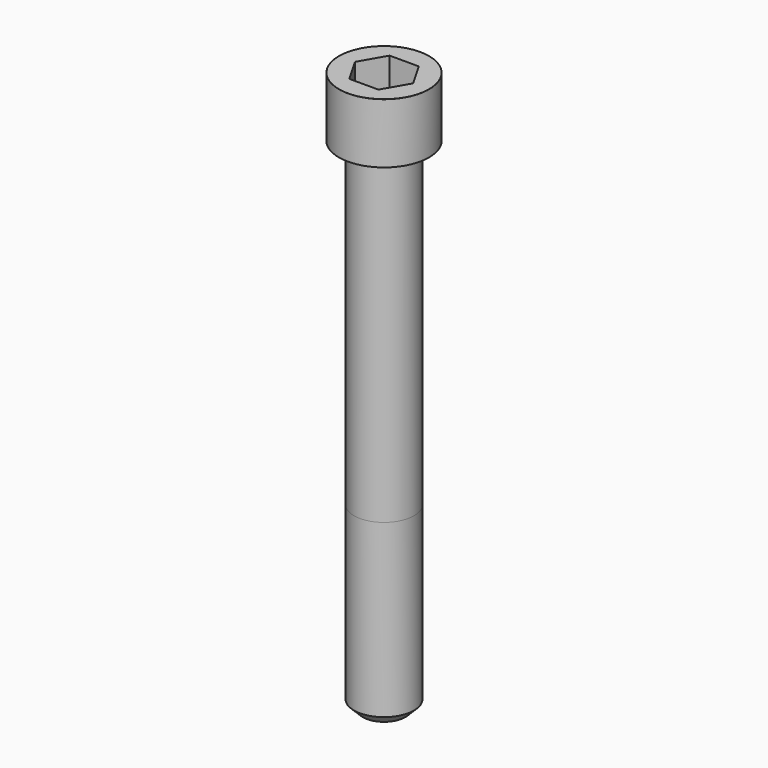
from build123d import *

# Parameters (mm, degrees)
POCKET_DEPTH = 10.07


with BuildPart() as part:
    # Sketch → Revolve (revolve)
    with BuildSketch(Plane.YZ):
        with BuildLine():
            Line((5.999, 0), (9, 0))
            Line((9, 0), (9, 11.97229))
            ThreePointArc((9, 11.97229), (8.991884, 11.991884), (8.97229, 12))
            Line((8.97229, 12), (0, 12))
            Line((0, -100), (0, 12))
            Line((4.25, -100), (0, -100))
            Line((6, -98.25), (4.25, -100))
            Line((6, -64), (6, -98.25))
            Line((5.999, 0), (6, -64))
        make_face()
    revolve(axis=Axis((0, 0, 0), (0, 0, 1)))

    # Sketch001 → Pocket (cut)
    with BuildSketch(Plane.XY.offset(12)):
        Polygon((5.813917, 0), (2.906959, 5.035), (-2.906959, 5.035), (-5.813917, 0), (-2.906959, -5.035), (2.906959, -5.035), align=None)
    extrude(amount=-POCKET_DEPTH, mode=Mode.SUBTRACT)


solid = part.part
